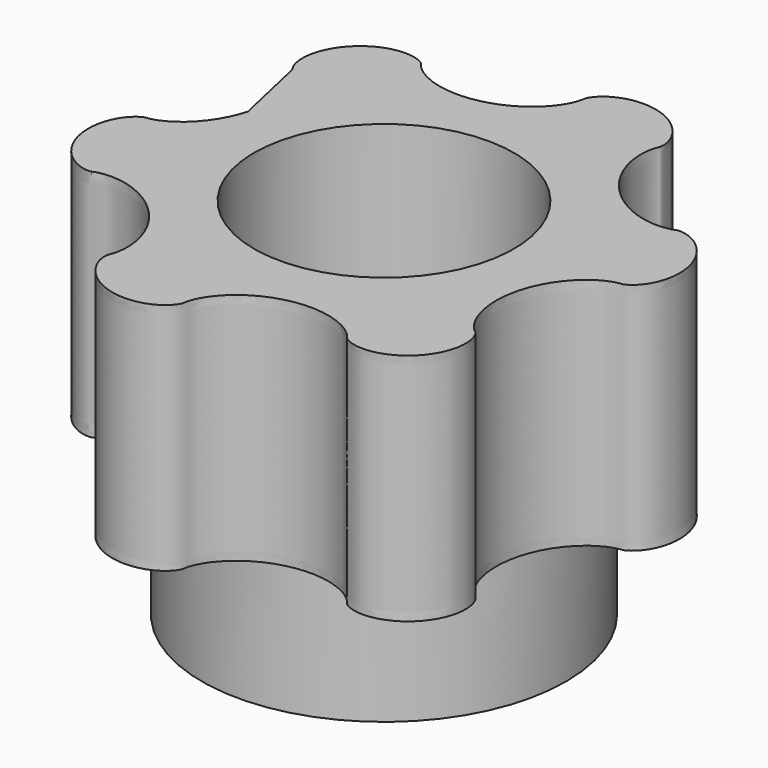
from build123d import *

# Parameters (mm, degrees)
CYLINDER009_R             = 2.5
CYLINDER009_DEPTH         = 20
CYLINDER013_R             = 3.5
CYLINDER013_DEPTH         = 7
PAD012_DEPTH              = 4.5
CUT011002_PLACEMENT_ANGLE = -31


with BuildPart() as axle_cutout:
    # Cylinder009 → Cylinder009 (new body)
    with BuildSketch(Plane.XY):
        Circle(CYLINDER009_R)
    extrude(amount=CYLINDER009_DEPTH)


with BuildPart() as spacer:
    # Cylinder013 → Cylinder013 (new body)
    with BuildSketch(Plane.XY.offset(4)):
        Circle(CYLINDER013_R)
    extrude(amount=CYLINDER013_DEPTH)


with BuildPart() as differential_planet_gear:
    # BSpline002 → Pad012 (new body)
    with BuildSketch(Plane(origin=(0, 0, 11), x_dir=(0.866025, -0.5, 0), z_dir=(0, 0, 1))):
        with BuildLine():
            add(Edge.make_bspline(
                [(4.494904, 0.199935), (4.493081, 0.199878), (4.490021, 0.199783), (4.485904, 0.199379), (4.483913, 0.199231), (4.481965, 0.198809), (4.485904, 0.19956), (4.488239, 0.200237), (4.494887, 0.20211), (4.502454, 0.204762), (4.512381, 0.20864), (4.523944, 0.213797), (4.537243, 0.220425), (4.552063, 0.228649), (4.568279, 0.238601), (4.585727, 0.250395), (4.60424, 0.264131), (4.623643, 0.279895), (4.643756, 0.297758), (4.664391, 0.317774), (4.685361, 0.339984), (4.706473, 0.364411), (4.727533, 0.391062), (4.748351, 0.419927), (4.768736, 0.450983), (4.7885, 0.484187), (4.807461, 0.519485), (4.825441, 0.556803), (4.84227, 0.596057), (4.857786, 0.637147), (4.871835, 0.67996), (4.884276, 0.72437), (4.894976, 0.770241), (4.903815, 0.817426), (4.910689, 0.865769), (4.915502, 0.915104), (4.918178, 0.96526), (4.918652, 1.016059), (4.916876, 1.06732), (4.912817, 1.118855), (4.906458, 1.170478), (4.897797, 1.221999), (4.886851, 1.273233), (4.873648, 1.323991), (4.858235, 1.374093), (4.840674, 1.423359), (4.821041, 1.471618), (4.799427, 1.518705), (4.775935, 1.564462), (4.750684, 1.608742), (4.723801, 1.651407), (4.695429, 1.692332), (4.665716, 1.731402), (4.634824, 1.768518), (4.602921, 1.803591), (4.570181, 1.836549), (4.536785, 1.867336), (4.502918, 1.895907), (4.468769, 1.922238), (4.434527, 1.946317), (4.400383, 1.96815), (4.366527, 1.987758), (4.333146, 2.005178), (4.300424, 2.020465), (4.268541, 2.033685), (4.23767, 2.044923), (4.207977, 2.054277), (4.179619, 2.061858), (4.152744, 2.067791), (4.12749, 2.072212), (4.103982, 2.075271), (4.082332, 2.077126), (4.062641, 2.077944), (4.044993, 2.0779), (4.029459, 2.077181), (4.016091, 2.075968), (4.004936, 2.074472), (3.99599, 2.072834), (3.989319, 2.071393), (3.984761, 2.070017), (3.982534, 2.06949), (3.981004, 2.068725), (3.984914, 2.070384), (3.985693, 2.070686), (3.992658, 2.074351), (3.988667, 2.072066), (3.983675, 2.069601), (3.97469, 2.065176), (3.963617, 2.060242), (3.950425, 2.0548), (3.935242, 2.049096), (3.918049, 2.043235), (3.89886, 2.037357), (3.87768, 2.031585), (3.854524, 2.026048), (3.829413, 2.020869), (3.802379, 2.01617), (3.773457, 2.012073), (3.742695, 2.008695), (3.710146, 2.006151), (3.675872, 2.004551), (3.63994, 2.004003), (3.602429, 2.004607), (3.56342, 2.006462), (3.523003, 2.009657), (3.481274, 2.014278), (3.438334, 2.020402), (3.39429, 2.028102), (3.349253, 2.037441), (3.30334, 2.048475), (3.256668, 2.061254), (3.209362, 2.075818), (3.161546, 2.092199), (3.113347, 2.110422), (3.064895, 2.1305), (3.016319, 2.152441), (2.967748, 2.176243), (2.919314, 2.201895), (2.871144, 2.229377), (2.823366, 2.258662), (2.776105, 2.289711), (2.729484, 2.322482), (2.683623, 2.356919), (2.638636, 2.392964), (2.594635, 2.430546), (2.551727, 2.46959), (2.510014, 2.510014), (2.46959, 2.551727), (2.430546, 2.594635), (2.392964, 2.638636), (2.356919, 2.683623), (2.322482, 2.729484), (2.289711, 2.776105), (2.258662, 2.823366), (2.229377, 2.871144), (2.201895, 2.919314), (2.176243, 2.967748), (2.152441, 3.016319), (2.1305, 3.064895), (2.110422, 3.113347), (2.092199, 3.161546), (2.075818, 3.209362), (2.061254, 3.256668), (2.048475, 3.30334), (2.037441, 3.349253), (2.028102, 3.39429), (2.020402, 3.438334), (2.014278, 3.481274), (2.009657, 3.523003), (2.006462, 3.56342), (2.004607, 3.602429), (2.004003, 3.63994), (2.004551, 3.675872), (2.006151, 3.710146), (2.008695, 3.742695), (2.012073, 3.773457), (2.01617, 3.802379), (2.020869, 3.829413), (2.026048, 3.854524), (2.031585, 3.87768), (2.037357, 3.89886), (2.043235, 3.918049), (2.049096, 3.935242), (2.0548, 3.950425), (2.060242, 3.963617), (2.065176, 3.97469), (2.069601, 3.983675), (2.072066, 3.988667), (2.074351, 3.992658), (2.070686, 3.985693), (2.070384, 3.984914), (2.068725, 3.981004), (2.06949, 3.982534), (2.070017, 3.984761), (2.071393, 3.989319), (2.072834, 3.99599), (2.074472, 4.004936), (2.075968, 4.016091), (2.077181, 4.029459), (2.0779, 4.044993), (2.077944, 4.062641), (2.077126, 4.082332), (2.075271, 4.103982), (2.072212, 4.12749), (2.067791, 4.152744), (2.061858, 4.179619), (2.054277, 4.207977), (2.044923, 4.23767), (2.033685, 4.268541), (2.020465, 4.300424), (2.005178, 4.333146), (1.987758, 4.366527), (1.96815, 4.400383), (1.946317, 4.434527), (1.922238, 4.468769), (1.895907, 4.502918), (1.867336, 4.536785), (1.836549, 4.570181), (1.803591, 4.602921), (1.768518, 4.634824), (1.731402, 4.665716), (1.692332, 4.695429), (1.651407, 4.723801), (1.608742, 4.750684), (1.564462, 4.775935), (1.518705, 4.799427), (1.471618, 4.821041), (1.423359, 4.840674), (1.374093, 4.858235), (1.323991, 4.873648), (1.273233, 4.886851), (1.221999, 4.897797), (1.170478, 4.906458), (1.118855, 4.912817), (1.06732, 4.916876), (1.016059, 4.918652), (0.96526, 4.918178), (0.915104, 4.915502), (0.865769, 4.910689), (0.817426, 4.903815), (0.770241, 4.894976), (0.72437, 4.884276), (0.67996, 4.871835), (0.637147, 4.857786), (0.596057, 4.84227), (0.556803, 4.825441), (0.519485, 4.807461), (0.484187, 4.7885), (0.450983, 4.768736), (0.419927, 4.748351), (0.391062, 4.727533), (0.364411, 4.706473), (0.339984, 4.685361), (0.317774, 4.664391), (0.297758, 4.643756), (0.279895, 4.623643), (0.264131, 4.60424), (0.250395, 4.585727), (0.238601, 4.568279), (0.228649, 4.552063), (0.220425, 4.537243), (0.213797, 4.523944), (0.20864, 4.512381), (0.204762, 4.502454), (0.20211, 4.494887), (0.200237, 4.48824), (0.19956, 4.485903), (0.198809, 4.481967), (0.199231, 4.48391), (0.199382, 4.486003), (0.199763, 4.489362), (0.200016, 4.497678), (0.199747, 4.488181), (0.199372, 4.482141), (0.198481, 4.470822), (0.19704, 4.458269), (0.194908, 4.443422), (0.191981, 4.42683), (0.188144, 4.408417), (0.183289, 4.388297), (0.177312, 4.366528), (0.170111, 4.343192), (0.161591, 4.31837), (0.151664, 4.292153), (0.140246, 4.264635), (0.127259, 4.235917), (0.112635, 4.206104), (0.096309, 4.175305), (0.078227, 4.143637), (0.058342, 4.111215), (0.036613, 4.078163), (0.01301, 4.044603), (-0.012491, 4.010662), (-0.039903, 3.976467), (-0.069232, 3.942146), (-0.100475, 3.907828), (-0.133621, 3.87364), (-0.168648, 3.839712), (-0.205527, 3.806167), (-0.244222, 3.77313), (-0.284687, 3.740723), (-0.326867, 3.709064), (-0.370701, 3.678266), (-0.416119, 3.64844), (-0.463045, 3.619691), (-0.511395, 3.592119), (-0.561079, 3.565818), (-0.612001, 3.540876), (-0.664058, 3.517375), (-0.717143, 3.495389), (-0.771145, 3.474986), (-0.825945, 3.456225), (-0.881426, 3.439158), (-0.937462, 3.423828), (-0.993927, 3.410272), (-1.050695, 3.398514), (-1.107635, 3.388575), (-1.164616, 3.380463), (-1.221508, 3.374178), (-1.27818, 3.369714), (-1.334504, 3.367054), (-1.390349, 3.366171), (-1.445592, 3.367033), (-1.500107, 3.369597), (-1.553776, 3.373814), (-1.606481, 3.379625), (-1.65811, 3.386964), (-1.708557, 3.395759), (-1.757718, 3.40593), (-1.805498, 3.417391), (-1.851805, 3.430048), (-1.896558, 3.443803), (-1.939678, 3.458554), (-1.981096, 3.474191), (-2.020751, 3.490602), (-2.058589, 3.507671), (-2.094563, 3.525278), (-2.128635, 3.543302), (-2.160778, 3.561617), (-2.190969, 3.580099), (-2.219196, 3.598621), (-2.245457, 3.617056), (-2.269756, 3.635277), (-2.292106, 3.653159), (-2.312531, 3.670577), (-2.331059, 3.687409), (-2.34773, 3.703534), (-2.362587, 3.718831), (-2.375691, 3.733201), (-2.387071, 3.746476), (-2.396887, 3.758706), (-2.40489, 3.76926), (-2.412003, 3.779423), (-2.415684, 3.784793), (-2.421995, 3.794976), (-2.41824, 3.78892), (-2.416255, 3.786107), (-2.415066, 3.784328), (-2.413168, 3.782042), (-2.414886, 3.784165), (-2.41661, 3.785875), (-2.420725, 3.790008), (-2.426272, 3.794928), (-2.4339, 3.801211), (-2.443473, 3.808376), (-2.455151, 3.816355), (-2.46896, 3.824922), (-2.484954, 3.833897), (-2.503153, 3.843083), (-2.523568, 3.852286), (-2.54619, 3.86131), (-2.570996, 3.869963), (-2.597946, 3.878054), (-2.626984, 3.885399), (-2.65804, 3.891816), (-2.691028, 3.897134), (-2.725848, 3.901187), (-2.762389, 3.903819), (-2.800525, 3.904885), (-2.84012, 3.904251), (-2.881026, 3.901795), (-2.923087, 3.897408), (-2.966138, 3.890995), (-3.010006, 3.882474), (-3.054514, 3.871779), (-3.099479, 3.85886), (-3.144714, 3.843681), (-3.190031, 3.826223), (-3.235241, 3.806483), (-3.280155, 3.784474), (-3.324588, 3.760223), (-3.368354, 3.733775), (-3.411276, 3.705188), (-3.45318, 3.674539), (-3.493899, 3.641914), (-3.533276, 3.607416), (-3.571161, 3.571161), (-3.607416, 3.533276), (-3.641914, 3.493899), (-3.674539, 3.45318), (-3.705188, 3.411276), (-3.733775, 3.368354), (-3.760223, 3.324588), (-3.784474, 3.280155), (-3.806483, 3.235241), (-3.826223, 3.190031), (-3.843681, 3.144714), (-3.85886, 3.099479), (-3.871779, 3.054514), (-3.882474, 3.010006), (-3.890995, 2.966138), (-3.897408, 2.923087), (-3.901795, 2.881026), (-3.904251, 2.84012), (-3.904885, 2.800525), (-3.903819, 2.762389), (-3.901187, 2.725848), (-3.897134, 2.691028), (-3.891816, 2.65804), (-3.885399, 2.626984), (-3.878054, 2.597946), (-3.869963, 2.570996), (-3.86131, 2.54619), (-3.852286, 2.523568), (-3.843083, 2.503153), (-3.833897, 2.484954), (-3.824922, 2.46896), (-3.816355, 2.455151), (-3.808376, 2.443473), (-3.801211, 2.4339), (-3.794928, 2.426272), (-3.790008, 2.420725), (-3.785875, 2.41661), (-3.784165, 2.414886), (-3.782042, 2.413168), (-3.784328, 2.415066), (-3.786107, 2.416255), (-3.78892, 2.41824), (-3.794976, 2.421995), (-3.784793, 2.415684), (-3.779423, 2.412003), (-3.76926, 2.40489), (-3.758706, 2.396887), (-3.746476, 2.387071), (-3.733201, 2.375691), (-3.718831, 2.362587), (-3.703534, 2.34773), (-3.687409, 2.331059), (-3.670577, 2.312531), (-3.653159, 2.292106), (-3.635277, 2.269756), (-3.617056, 2.245457), (-3.598621, 2.219196), (-3.580099, 2.190969), (-3.561617, 2.160778), (-3.543302, 2.128635), (-3.525278, 2.094563), (-3.507671, 2.058589), (-3.490602, 2.020751), (-3.474191, 1.981096), (-3.458554, 1.939678), (-3.443803, 1.896558), (-3.430048, 1.851805), (-3.417391, 1.805498), (-3.40593, 1.757718), (-3.395759, 1.708557), (-3.386964, 1.65811), (-3.379625, 1.606481), (-3.373814, 1.553776), (-3.369597, 1.500107), (-3.367033, 1.445592), (-3.366171, 1.390349), (-3.367054, 1.334504), (-3.369714, 1.27818), (-3.374178, 1.221508), (-3.380463, 1.164616), (-3.388575, 1.107635), (-3.398514, 1.050695), (-3.410272, 0.993927), (-3.423828, 0.937462), (-3.439158, 0.881426), (-3.456225, 0.825945), (-3.474986, 0.771145), (-3.495389, 0.717143), (-3.517375, 0.664058), (-3.540876, 0.612001), (-3.565818, 0.561079), (-3.592119, 0.511395), (-3.619691, 0.463045), (-3.64844, 0.416119), (-3.678266, 0.370701), (-3.709064, 0.326867), (-3.740723, 0.284687), (-3.77313, 0.244222), (-3.806167, 0.205527), (-3.839712, 0.168648), (-3.87364, 0.133621), (-3.907828, 0.100475), (-3.942146, 0.069232), (-3.976467, 0.039903), (-4.010662, 0.012491), (-4.044603, -0.01301), (-4.078163, -0.036613), (-4.111215, -0.058342), (-4.143637, -0.078227), (-4.175305, -0.096309), (-4.206104, -0.112635), (-4.235917, -0.127259), (-4.264635, -0.140246), (-4.292153, -0.151664), (-4.31837, -0.161591), (-4.343192, -0.170111), (-4.366528, -0.177312), (-4.388297, -0.183289), (-4.408417, -0.188144), (-4.42683, -0.191981), (-4.443422, -0.194908), (-4.458269, -0.19704), (-4.470822, -0.198481), (-4.482141, -0.199372), (-4.488181, -0.199747), (-4.497678, -0.200016), (-4.489362, -0.199763), (-4.486003, -0.199382), (-4.48391, -0.199231), (-4.481967, -0.198809), (-4.485903, -0.19956), (-4.48824, -0.200237), (-4.494887, -0.20211), (-4.502454, -0.204762), (-4.512381, -0.20864), (-4.523944, -0.213797), (-4.537243, -0.220425), (-4.552063, -0.228649), (-4.568279, -0.238601), (-4.585727, -0.250395), (-4.60424, -0.264131), (-4.623643, -0.279895), (-4.643756, -0.297758), (-4.664391, -0.317774), (-4.685361, -0.339984), (-4.706473, -0.364411), (-4.727533, -0.391062), (-4.748351, -0.419927), (-4.768736, -0.450983), (-4.7885, -0.484187), (-4.807461, -0.519485), (-4.825441, -0.556803), (-4.84227, -0.596057), (-4.857786, -0.637147), (-4.871835, -0.67996), (-4.884276, -0.72437), (-4.894976, -0.770241), (-4.903815, -0.817426), (-4.910689, -0.865769), (-4.915502, -0.915104), (-4.918178, -0.96526), (-4.918652, -1.016059), (-4.916876, -1.06732), (-4.912817, -1.118855), (-4.906458, -1.170478), (-4.897797, -1.221999), (-4.886851, -1.273233), (-4.873648, -1.323991), (-4.858235, -1.374093), (-4.840674, -1.423359), (-4.821041, -1.471618), (-4.799427, -1.518705), (-4.775935, -1.564462), (-4.750684, -1.608742), (-4.723801, -1.651407), (-4.695429, -1.692332), (-4.665716, -1.731402), (-4.634824, -1.768518), (-4.602921, -1.803591), (-4.570181, -1.836549), (-4.536785, -1.867336), (-4.502918, -1.895907), (-4.468769, -1.922238), (-4.434527, -1.946317), (-4.400383, -1.96815), (-4.366527, -1.987758), (-4.333146, -2.005178), (-4.300424, -2.020465), (-4.268541, -2.033685), (-4.23767, -2.044923), (-4.207977, -2.054277), (-4.179619, -2.061858), (-4.152744, -2.067791), (-4.12749, -2.072212), (-4.103982, -2.075271), (-4.082332, -2.077126), (-4.062641, -2.077944), (-4.044993, -2.0779), (-4.029459, -2.077181), (-4.016091, -2.075968), (-4.004936, -2.074472), (-3.99599, -2.072834), (-3.989319, -2.071393), (-3.984761, -2.070017), (-3.982534, -2.06949), (-3.981004, -2.068725), (-3.984914, -2.070384), (-3.985693, -2.070686), (-3.992658, -2.074351), (-3.988667, -2.072066), (-3.983675, -2.069601), (-3.97469, -2.065176), (-3.963617, -2.060242), (-3.950425, -2.0548), (-3.935242, -2.049096), (-3.918049, -2.043235), (-3.89886, -2.037357), (-3.87768, -2.031585), (-3.854524, -2.026048), (-3.829413, -2.020869), (-3.802379, -2.01617), (-3.773457, -2.012073), (-3.742695, -2.008695), (-3.710146, -2.006151), (-3.675872, -2.004551), (-3.63994, -2.004003), (-3.602429, -2.004607), (-3.56342, -2.006462), (-3.523003, -2.009657), (-3.481274, -2.014278), (-3.438334, -2.020402), (-3.39429, -2.028102), (-3.349253, -2.037441), (-3.30334, -2.048475), (-3.256668, -2.061254), (-3.209362, -2.075818), (-3.161546, -2.092199), (-3.113347, -2.110422), (-3.064895, -2.1305), (-3.016319, -2.152441), (-2.967748, -2.176243), (-2.919314, -2.201895), (-2.871144, -2.229377), (-2.823366, -2.258662), (-2.776105, -2.289711), (-2.729484, -2.322482), (-2.683623, -2.356919), (-2.638636, -2.392964), (-2.594635, -2.430546), (-2.551727, -2.46959), (-2.510014, -2.510014), (-2.46959, -2.551727), (-2.430546, -2.594635), (-2.392964, -2.638636), (-2.356919, -2.683623), (-2.322482, -2.729484), (-2.289711, -2.776105), (-2.258662, -2.823366), (-2.229377, -2.871144), (-2.201895, -2.919314), (-2.176243, -2.967748), (-2.152441, -3.016319), (-2.1305, -3.064895), (-2.110422, -3.113347), (-2.092199, -3.161546), (-2.075818, -3.209362), (-2.061254, -3.256668), (-2.048475, -3.30334), (-2.037441, -3.349253), (-2.028102, -3.39429), (-2.020402, -3.438334), (-2.014278, -3.481274), (-2.009657, -3.523003), (-2.006462, -3.56342), (-2.004607, -3.602429), (-2.004003, -3.63994), (-2.004551, -3.675872), (-2.006151, -3.710146), (-2.008695, -3.742695), (-2.012073, -3.773457), (-2.01617, -3.802379), (-2.020869, -3.829413), (-2.026048, -3.854524), (-2.031585, -3.87768), (-2.037357, -3.89886), (-2.043235, -3.918049), (-2.049096, -3.935242), (-2.0548, -3.950425), (-2.060242, -3.963617), (-2.065176, -3.97469), (-2.069601, -3.983675), (-2.072066, -3.988667), (-2.074351, -3.992658), (-2.070686, -3.985693), (-2.070384, -3.984914), (-2.068725, -3.981004), (-2.06949, -3.982534), (-2.070017, -3.984761), (-2.071393, -3.989319), (-2.072834, -3.99599), (-2.074472, -4.004936), (-2.075968, -4.016091), (-2.077181, -4.029459), (-2.0779, -4.044993), (-2.077944, -4.062641), (-2.077126, -4.082332), (-2.075271, -4.103982), (-2.072212, -4.12749), (-2.067791, -4.152744), (-2.061858, -4.179619), (-2.054277, -4.207977), (-2.044923, -4.23767), (-2.033685, -4.268541), (-2.020465, -4.300424), (-2.005178, -4.333146), (-1.987758, -4.366527), (-1.96815, -4.400383), (-1.946317, -4.434527), (-1.922238, -4.468769), (-1.895907, -4.502918), (-1.867336, -4.536785), (-1.836549, -4.570181), (-1.803591, -4.602921), (-1.768518, -4.634824), (-1.731402, -4.665716), (-1.692332, -4.695429), (-1.651407, -4.723801), (-1.608742, -4.750684), (-1.564462, -4.775935), (-1.518705, -4.799427), (-1.471618, -4.821041), (-1.423359, -4.840674), (-1.374093, -4.858235), (-1.323991, -4.873648), (-1.273233, -4.886851), (-1.221999, -4.897797), (-1.170478, -4.906458), (-1.118855, -4.912817), (-1.06732, -4.916876), (-1.016059, -4.918652), (-0.96526, -4.918178), (-0.915104, -4.915502), (-0.865769, -4.910689), (-0.817426, -4.903815), (-0.770241, -4.894976), (-0.72437, -4.884276), (-0.67996, -4.871835), (-0.637147, -4.857786), (-0.596057, -4.84227), (-0.556803, -4.825441), (-0.519485, -4.807461), (-0.484187, -4.7885), (-0.450983, -4.768736), (-0.419927, -4.748351), (-0.391062, -4.727533), (-0.364411, -4.706473), (-0.339984, -4.685361), (-0.317774, -4.664391), (-0.297758, -4.643756), (-0.279895, -4.623643), (-0.264131, -4.60424), (-0.250395, -4.585727), (-0.238601, -4.568279), (-0.228649, -4.552063), (-0.220425, -4.537243), (-0.213797, -4.523944), (-0.20864, -4.512381), (-0.204762, -4.502454), (-0.20211, -4.494887), (-0.200237, -4.48824), (-0.19956, -4.485903), (-0.198809, -4.481967), (-0.199231, -4.48391), (-0.199382, -4.486003), (-0.199763, -4.489362), (-0.200016, -4.497678), (-0.199747, -4.488181), (-0.199372, -4.482141), (-0.198481, -4.470822), (-0.19704, -4.458269), (-0.194908, -4.443422), (-0.191981, -4.42683), (-0.188144, -4.408417), (-0.183289, -4.388297), (-0.177312, -4.366528), (-0.170111, -4.343192), (-0.161591, -4.31837), (-0.151664, -4.292153), (-0.140246, -4.264635), (-0.127259, -4.235917), (-0.112635, -4.206104), (-0.096309, -4.175305), (-0.078227, -4.143637), (-0.058342, -4.111215), (-0.036613, -4.078163), (-0.01301, -4.044603), (0.012491, -4.010662), (0.039903, -3.976467), (0.069232, -3.942146), (0.100475, -3.907828), (0.133621, -3.87364), (0.168648, -3.839712), (0.205527, -3.806167), (0.244222, -3.77313), (0.284687, -3.740723), (0.326867, -3.709064), (0.370701, -3.678266), (0.416119, -3.64844), (0.463045, -3.619691), (0.511395, -3.592119), (0.561079, -3.565818), (0.612001, -3.540876), (0.664058, -3.517375), (0.717143, -3.495389), (0.771145, -3.474986), (0.825945, -3.456225), (0.881426, -3.439158), (0.937462, -3.423828), (0.993927, -3.410272), (1.050695, -3.398514), (1.107635, -3.388575), (1.164616, -3.380463), (1.221508, -3.374178), (1.27818, -3.369714), (1.334504, -3.367054), (1.390349, -3.366171), (1.445592, -3.367033), (1.500107, -3.369597), (1.553776, -3.373814), (1.606481, -3.379625), (1.65811, -3.386964), (1.708557, -3.395759), (1.757718, -3.40593), (1.805498, -3.417391), (1.851805, -3.430048), (1.896558, -3.443803), (1.939678, -3.458554), (1.981096, -3.474191), (2.020751, -3.490602), (2.058589, -3.507671), (2.094563, -3.525278), (2.128635, -3.543302), (2.160778, -3.561617), (2.190969, -3.580099), (2.219196, -3.598621), (2.245457, -3.617056), (2.269756, -3.635277), (2.292106, -3.653159), (2.312531, -3.670577), (2.331059, -3.687409), (2.34773, -3.703534), (2.362587, -3.718831), (2.375691, -3.733201), (2.387071, -3.746476), (2.396887, -3.758706), (2.40489, -3.76926), (2.412003, -3.779423), (2.415684, -3.784793), (2.421995, -3.794976), (2.41824, -3.78892), (2.416255, -3.786107), (2.415066, -3.784328), (2.413168, -3.782042), (2.414886, -3.784165), (2.41661, -3.785875), (2.420725, -3.790008), (2.426272, -3.794928), (2.4339, -3.801211), (2.443473, -3.808376), (2.455151, -3.816355), (2.46896, -3.824922), (2.484954, -3.833897), (2.503153, -3.843083), (2.523568, -3.852286), (2.54619, -3.86131), (2.570996, -3.869963), (2.597946, -3.878054), (2.626984, -3.885399), (2.65804, -3.891816), (2.691028, -3.897134), (2.725848, -3.901187), (2.762389, -3.903819), (2.800525, -3.904885), (2.84012, -3.904251), (2.881026, -3.901795), (2.923087, -3.897408), (2.966138, -3.890995), (3.010006, -3.882474), (3.054514, -3.871779), (3.099479, -3.85886), (3.144714, -3.843681), (3.190031, -3.826223), (3.235241, -3.806483), (3.280155, -3.784474), (3.324588, -3.760223), (3.368354, -3.733775), (3.411276, -3.705188), (3.45318, -3.674539), (3.493899, -3.641914), (3.533276, -3.607416), (3.571161, -3.571161), (3.607416, -3.533276), (3.641914, -3.493899), (3.674539, -3.45318), (3.705188, -3.411276), (3.733775, -3.368354), (3.760223, -3.324588), (3.784474, -3.280155), (3.806483, -3.235241), (3.826223, -3.190031), (3.843681, -3.144714), (3.85886, -3.099479), (3.871779, -3.054514), (3.882474, -3.010006), (3.890995, -2.966138), (3.897408, -2.923087), (3.901795, -2.881026), (3.904251, -2.84012), (3.904885, -2.800525), (3.903819, -2.762389), (3.901187, -2.725848), (3.897134, -2.691028), (3.891816, -2.65804), (3.885399, -2.626984), (3.878054, -2.597946), (3.869963, -2.570996), (3.86131, -2.54619), (3.852286, -2.523568), (3.843083, -2.503153), (3.833897, -2.484954), (3.824922, -2.46896), (3.816355, -2.455151), (3.808376, -2.443473), (3.801211, -2.4339), (3.794928, -2.426272), (3.790008, -2.420725), (3.785875, -2.41661), (3.784165, -2.414886), (3.782042, -2.413168), (3.784328, -2.415066), (3.786107, -2.416255), (3.78892, -2.41824), (3.794976, -2.421995), (3.784793, -2.415684), (3.779423, -2.412003), (3.76926, -2.40489), (3.758706, -2.396887), (3.746476, -2.387071), (3.733201, -2.375691), (3.718831, -2.362587), (3.703534, -2.34773), (3.687409, -2.331059), (3.670577, -2.312531), (3.653159, -2.292106), (3.635277, -2.269756), (3.617056, -2.245457), (3.598621, -2.219196), (3.580099, -2.190969), (3.561617, -2.160778), (3.543302, -2.128635), (3.525278, -2.094563), (3.507671, -2.058589), (3.490602, -2.020751), (3.474191, -1.981096), (3.458554, -1.939678), (3.443803, -1.896558), (3.430048, -1.851805), (3.417391, -1.805498), (3.40593, -1.757718), (3.395759, -1.708557), (3.386964, -1.65811), (3.379625, -1.606481), (3.373814, -1.553776), (3.369597, -1.500107), (3.367033, -1.445592), (3.366171, -1.390349), (3.367054, -1.334504), (3.369714, -1.27818), (3.374178, -1.221508), (3.380463, -1.164616), (3.388575, -1.107635), (3.398514, -1.050695), (3.410272, -0.993927), (3.423828, -0.937462), (3.439158, -0.881426), (3.456225, -0.825945), (3.474986, -0.771145), (3.495389, -0.717143), (3.517375, -0.664058), (3.540876, -0.612001), (3.565818, -0.561079), (3.592119, -0.511395), (3.619691, -0.463045), (3.64844, -0.416119), (3.678266, -0.370701), (3.709064, -0.326867), (3.740723, -0.284687), (3.77313, -0.244222), (3.806167, -0.205527), (3.839712, -0.168648), (3.87364, -0.133621), (3.907828, -0.100475), (3.942146, -0.069232), (3.976467, -0.039903), (4.010662, -0.012491), (4.044603, 0.01301), (4.078163, 0.036613), (4.111215, 0.058342), (4.143637, 0.078227), (4.175305, 0.096309), (4.206104, 0.112635), (4.235917, 0.127259), (4.264635, 0.140246), (4.292153, 0.151664), (4.31837, 0.161591), (4.343192, 0.170111), (4.366527, 0.177312), (4.388297, 0.18329), (4.408414, 0.188144), (4.426838, 0.191981), (4.443397, 0.194907), (4.458346, 0.197042), (4.470592, 0.198475), (4.482778, 0.199391), (4.486777, 0.199706), (4.496322, 0.199979), (4.494904, 0.199935)],
                knots=[0, 0, 0, 0, 0.005477, 0.009343, 0.011885, 0.012377, 0.014071, 0.017984, 0.024119, 0.032466, 0.043006, 0.055716, 0.070566, 0.087525, 0.106558, 0.127625, 0.150685, 0.175692, 0.2026, 0.231358, 0.261912, 0.294206, 0.328183, 0.363782, 0.40094, 0.439592, 0.479669, 0.521104, 0.563824, 0.607756, 0.652826, 0.698957, 0.746071, 0.794089, 0.842929, 0.89251, 0.942749, 0.993563, 1.044866, 1.096572, 1.148597, 1.200854, 1.253256, 1.305716, 1.358146, 1.410461, 1.462573, 1.514395, 1.565842, 1.616828, 1.667268, 1.717078, 1.766174, 1.814475, 1.861899, 1.908366, 1.953799, 1.998119, 2.041251, 2.083122, 2.12366, 2.162794, 2.200457, 2.236583, 2.271108, 2.30397, 2.33511, 2.364473, 2.392003, 2.417649, 2.441363, 2.4631, 2.482815, 2.500469, 2.516026, 2.529453, 2.540719, 2.549799, 2.556673, 2.561328, 2.563759, 2.563991, 2.565878, 2.5695, 2.574561, 2.574937, 2.582188, 2.592228, 2.604469, 2.618736, 2.634971, 2.653139, 2.673214, 2.695171, 2.718985, 2.744629, 2.772075, 2.801291, 2.832245, 2.8649, 2.89922, 2.935164, 2.972689, 3.011751, 3.052304, 3.094298, 3.137683, 3.182406, 3.228412, 3.275644, 3.324046, 3.373555, 3.424112, 3.475654, 3.528115, 3.58143, 3.635532, 3.690354, 3.745827, 3.801879, 3.858442, 3.915443, 3.972809, 4.03047, 4.088351, 4.146379, 4.204481, 4.262583, 4.320611, 4.378492, 4.436152, 4.493519, 4.55052, 4.607082, 4.663135, 4.718607, 4.773429, 4.827532, 4.880847, 4.933308, 4.984849, 5.035406, 5.084916, 5.133317, 5.18055, 5.226556, 5.271279, 5.314664, 5.356658, 5.39721, 5.436273, 5.473798, 5.509742, 5.544061, 5.576717, 5.60767, 5.636887, 5.664333, 5.689977, 5.713791, 5.735748, 5.755823, 5.773991, 5.790225, 5.804493, 5.816734, 5.826773, 5.834025, 5.834401, 5.839462, 5.843084, 5.844971, 5.845202, 5.847634, 5.852288, 5.859162, 5.868243, 5.879509, 5.892935, 5.908492, 5.926147, 5.945862, 5.967598, 5.991312, 6.016959, 6.044489, 6.073851, 6.104992, 6.137854, 6.172378, 6.208504, 6.246167, 6.285302, 6.325839, 6.367711, 6.410843, 6.455163, 6.500595, 6.547063, 6.594486, 6.642787, 6.691884, 6.741693, 6.792133, 6.843119, 6.894566, 6.946389, 6.998501, 7.050815, 7.103246, 7.155706, 7.208107, 7.260364, 7.312389, 7.364096, 7.415399, 7.466212, 7.516451, 7.566033, 7.614873, 7.66289, 7.710004, 7.756135, 7.801205, 7.845138, 7.887858, 7.929292, 7.96937, 8.008021, 8.045179, 8.080778, 8.114755, 8.14705, 8.177604, 8.206361, 8.233269, 8.258277, 8.281337, 8.302404, 8.321436, 8.338396, 8.353246, 8.365955, 8.376495, 8.384842, 8.390978, 8.394891, 8.396585, 8.397077, 8.399618, 8.403485, 8.408962, 8.413219, 8.421383, 8.432194, 8.44512, 8.460048, 8.47693, 8.495737, 8.516442, 8.539021, 8.563448, 8.589696, 8.617735, 8.647535, 8.67906, 8.712274, 8.74714, 8.783615, 8.821658, 8.861222, 8.902261, 8.944725, 8.988561, 9.033718, 9.080139, 9.127768, 9.176546, 9.226411, 9.277304, 9.329159, 9.381912, 9.435497, 9.489847, 9.544893, 9.600567, 9.656797, 9.713514, 9.770645, 9.828117, 9.88586, 9.943798, 10.001859, 10.059969, 10.118054, 10.176041, 10.233857, 10.291428, 10.348681, 10.405543, 10.461944, 10.517811, 10.573074, 10.627664, 10.681511, 10.734549, 10.786711, 10.837931, 10.888146, 10.937293, 10.985311, 11.032141, 11.077726, 11.122009, 11.164936, 11.206455, 11.246516, 11.285071, 11.322074, 11.357481, 11.39125, 11.423343, 11.453721, 11.482351, 11.509199, 11.534237, 11.557435, 11.578767, 11.598209, 11.615735, 11.631319, 11.64492, 11.656458, 11.665646, 11.672019, 11.675694, 11.679919, 11.683057, 11.684256, 11.685216, 11.688388, 11.693783, 11.701394, 11.711206, 11.723195, 11.737335, 11.753595, 11.771941, 11.792334, 11.814735, 11.839098, 11.865378, 11.893525, 11.923486, 11.955207, 11.98863, 12.023695, 12.06034, 12.098501, 12.138111, 12.179101, 12.221401, 12.264937, 12.309637, 12.355422, 12.402217, 12.449943, 12.498518, 12.547861, 12.59789, 12.648522, 12.699671, 12.751252, 12.803181, 12.85537, 12.907733, 12.960183, 13.012633, 13.064996, 13.117185, 13.169114, 13.220695, 13.271845, 13.322476, 13.372505, 13.421848, 13.470424, 13.518149, 13.564944, 13.61073, 13.655429, 13.698965, 13.741265, 13.782255, 13.821865, 13.860026, 13.896671, 13.931737, 13.96516, 13.99688, 14.026841, 14.054988, 14.081268, 14.105632, 14.128032, 14.148425, 14.166771, 14.183031, 14.197171, 14.20916, 14.218972, 14.226583, 14.231978, 14.23515, 14.23611, 14.23731, 14.240447, 14.244673, 14.248347, 14.25472, 14.263908, 14.275446, 14.289047, 14.304631, 14.322157, 14.341599, 14.362932, 14.386129, 14.411167, 14.438015, 14.466645, 14.497024, 14.529116, 14.562885, 14.598292, 14.635295, 14.67385, 14.713911, 14.75543, 14.798357, 14.84264, 14.888225, 14.935055, 14.983073, 15.03222, 15.082435, 15.133655, 15.185817, 15.238855, 15.292702, 15.347292, 15.402555, 15.458422, 15.514823, 15.571686, 15.628938, 15.686509, 15.744325, 15.802312, 15.860397, 15.918507, 15.976568, 16.034507, 16.092249, 16.149721, 16.206852, 16.263569, 16.319799, 16.375473, 16.430519, 16.484869, 16.538454, 16.591208, 16.643063, 16.693955, 16.74382, 16.792598, 16.840227, 16.886648, 16.931805, 16.975642, 17.018105, 17.059144, 17.098708, 17.136751, 17.173226, 17.208092, 17.241306, 17.272831, 17.302631, 17.33067, 17.356918, 17.381346, 17.403925, 17.424629, 17.443436, 17.460318, 17.475246, 17.488172, 17.498983, 17.507147, 17.511405, 17.516881, 17.520748, 17.52329, 17.523782, 17.525475, 17.529389, 17.535524, 17.543871, 17.554411, 17.56712, 17.581971, 17.59893, 17.617962, 17.639029, 17.662089, 17.687097, 17.714005, 17.742762, 17.773316, 17.805611, 17.839588, 17.875187, 17.912345, 17.950996, 17.991074, 18.032508, 18.075229, 18.119161, 18.164231, 18.210362, 18.257476, 18.305493, 18.354333, 18.403915, 18.454154, 18.504967, 18.55627, 18.607977, 18.660002, 18.712259, 18.76466, 18.81712, 18.869551, 18.921865, 18.973977, 19.0258, 19.077247, 19.128233, 19.178673, 19.228483, 19.277579, 19.32588, 19.373304, 19.419771, 19.465203, 19.509523, 19.552656, 19.594527, 19.635064, 19.674199, 19.711862, 19.747988, 19.782512, 19.815374, 19.846515, 19.875877, 19.903407, 19.929054, 19.952768, 19.974504, 19.994219, 20.011874, 20.027431, 20.040857, 20.052123, 20.061204, 20.068078, 20.072732, 20.075164, 20.075395, 20.077283, 20.080905, 20.085966, 20.086341, 20.093593, 20.103633, 20.115873, 20.130141, 20.146376, 20.164543, 20.184618, 20.206575, 20.230389, 20.256034, 20.283479, 20.312696, 20.343649, 20.376305, 20.410625, 20.446568, 20.484093, 20.523156, 20.563708, 20.605703, 20.649087, 20.69381, 20.739816, 20.787049, 20.83545, 20.88496, 20.935517, 20.987058, 21.039519, 21.092834, 21.146937, 21.201759, 21.257231, 21.313284, 21.369846, 21.426847, 21.484214, 21.541874, 21.599755, 21.657784, 21.715885, 21.773987, 21.832015, 21.889896, 21.947557, 22.004924, 22.061924, 22.118487, 22.17454, 22.230012, 22.284834, 22.338936, 22.392252, 22.444713, 22.496254, 22.546811, 22.596321, 22.644722, 22.691954, 22.737961, 22.782683, 22.826068, 22.868062, 22.908615, 22.947677, 22.985202, 23.021146, 23.055466, 23.088121, 23.119075, 23.148291, 23.175737, 23.201381, 23.225196, 23.247153, 23.267227, 23.285395, 23.30163, 23.315897, 23.328138, 23.338178, 23.34543, 23.345805, 23.350866, 23.354488, 23.356376, 23.356607, 23.359039, 23.363693, 23.370567, 23.379647, 23.390913, 23.40434, 23.419897, 23.437551, 23.457267, 23.479003, 23.502717, 23.528363, 23.555893, 23.585256, 23.616396, 23.649258, 23.683783, 23.719909, 23.757572, 23.796706, 23.837244, 23.879115, 23.922248, 23.966568, 24.012, 24.058467, 24.105891, 24.154192, 24.203288, 24.253098, 24.303538, 24.354524, 24.405971, 24.457793, 24.509905, 24.56222, 24.614651, 24.66711, 24.719512, 24.771769, 24.823794, 24.875501, 24.926803, 24.977617, 25.027856, 25.077437, 25.126277, 25.174295, 25.221409, 25.26754, 25.31261, 25.356542, 25.399262, 25.440697, 25.480774, 25.519426, 25.556584, 25.592183, 25.62616, 25.658455, 25.689009, 25.717766, 25.744674, 25.769681, 25.792741, 25.813808, 25.832841, 25.8498, 25.86465, 25.87736, 25.8879, 25.896247, 25.902382, 25.906295, 25.907989, 25.908481, 25.911023, 25.914889, 25.920366, 25.924624, 25.932788, 25.943598, 25.956525, 25.971453, 25.988335, 26.007141, 26.027846, 26.050425, 26.074852, 26.1011, 26.12914, 26.158939, 26.190464, 26.223679, 26.258544, 26.29502, 26.333063, 26.372627, 26.413666, 26.456129, 26.499966, 26.545123, 26.591544, 26.639173, 26.68795, 26.737816, 26.788708, 26.840563, 26.893316, 26.946901, 27.001251, 27.056298, 27.111971, 27.168202, 27.224918, 27.282049, 27.339522, 27.397264, 27.455202, 27.513263, 27.571373, 27.629459, 27.687446, 27.745262, 27.802832, 27.860085, 27.916948, 27.973348, 28.029215, 28.084479, 28.139068, 28.192916, 28.245954, 28.298115, 28.349335, 28.39955, 28.448697, 28.496716, 28.543546, 28.58913, 28.633413, 28.67634, 28.717859, 28.757921, 28.796476, 28.833479, 28.868885, 28.902655, 28.934747, 28.965126, 28.993755, 29.020604, 29.045641, 29.068839, 29.090171, 29.109613, 29.12714, 29.142723, 29.156324, 29.167863, 29.177051, 29.183423, 29.187098, 29.191324, 29.194461, 29.195661, 29.19662, 29.199792, 29.205187, 29.212799, 29.22261, 29.2346, 29.24874, 29.265, 29.283345, 29.303739, 29.326139, 29.350503, 29.376783, 29.404929, 29.43489, 29.466611, 29.500034, 29.535099, 29.571745, 29.609906, 29.649516, 29.690506, 29.732805, 29.776342, 29.821041, 29.866827, 29.913622, 29.961347, 30.009922, 30.059266, 30.109295, 30.159926, 30.211075, 30.262657, 30.314585, 30.366775, 30.419138, 30.471588, 30.524038, 30.576401, 30.62859, 30.680518, 30.7321, 30.783249, 30.833881, 30.88391, 30.933253, 30.981828, 31.029553, 31.076348, 31.122134, 31.166833, 31.21037, 31.252669, 31.29366, 31.333269, 31.37143, 31.408076, 31.443141, 31.476564, 31.508285, 31.538246, 31.566393, 31.592673, 31.617036, 31.639436, 31.65983, 31.678175, 31.694436, 31.708576, 31.720565, 31.730376, 31.737988, 31.743383, 31.746555, 31.747514, 31.748714, 31.751851, 31.756077, 31.759752, 31.766124, 31.775312, 31.786851, 31.800452, 31.816035, 31.833562, 31.853004, 31.874336, 31.897534, 31.922571, 31.94942, 31.97805, 32.008428, 32.040521, 32.07429, 32.109697, 32.1467, 32.185255, 32.225316, 32.266835, 32.309762, 32.354045, 32.399629, 32.44646, 32.494478, 32.543625, 32.59384, 32.64506, 32.697222, 32.750259, 32.804107, 32.858697, 32.91396, 32.969827, 33.026228, 33.08309, 33.140343, 33.197914, 33.255729, 33.313717, 33.371802, 33.429912, 33.487973, 33.545911, 33.603653, 33.661126, 33.718257, 33.774973, 33.831204, 33.886878, 33.941924, 33.996274, 34.049859, 34.102612, 34.154467, 34.205359, 34.255225, 34.304002, 34.351631, 34.398053, 34.443209, 34.487046, 34.52951, 34.570548, 34.610113, 34.648155, 34.684631, 34.719496, 34.752711, 34.784236, 34.814035, 34.842075, 34.868323, 34.89275, 34.915329, 34.936034, 34.95484, 34.971722, 34.98665, 34.999577, 35.010388, 35.018552, 35.022809, 35.022809, 35.022809, 35.022809], degree=3))
        make_face()
    extrude(amount=-PAD012_DEPTH)

    # Fusion010: union spacer
    add(spacer.part)

    # Cut011002: cut axle cutout
    add(axle_cutout.part, mode=Mode.SUBTRACT)


with BuildPart() as differential_planet_gear_1:
    # Cut011002 placement: moved
    add(differential_planet_gear.part.moved(Location((0, 28.5, 0))).rotate(Axis((0, 28.5, 0), (0, 0, 1)), CUT011002_PLACEMENT_ANGLE))


solid = differential_planet_gear_1.part
